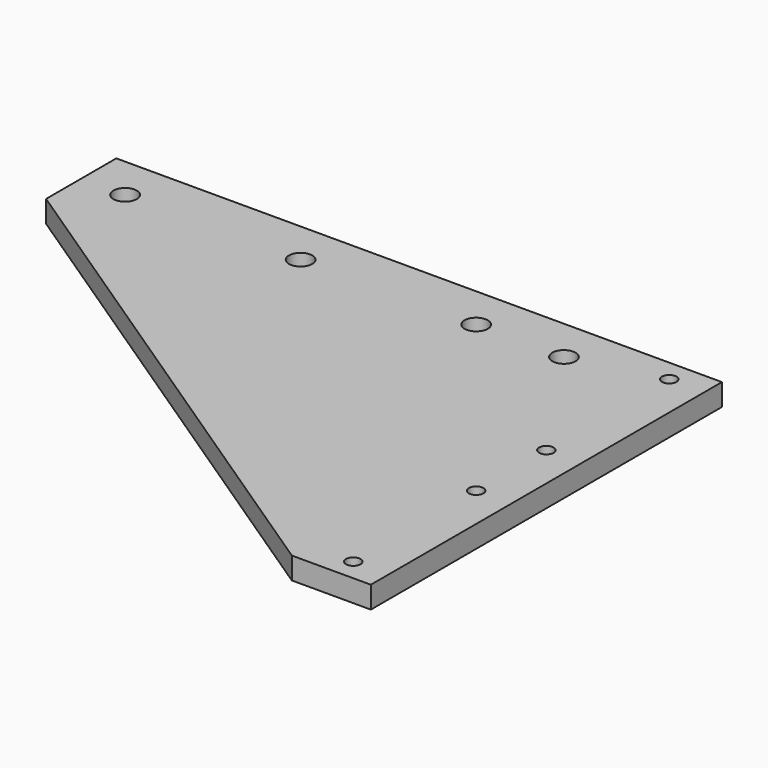
from build123d import *

# Parameters (mm, degrees)
SKETCH_R   = 2.65
SKETCH_R_2 = 1.65
PAD_DEPTH  = 5


with BuildPart() as part:
    # Sketch → Pad (new body)
    with BuildSketch(Plane.XY):
        Polygon((-120, 20), (18, 20), (18, -80), (0, -80), (-120, 0), align=None)
        with Locations((-10, 10)):
            Circle(SKETCH_R, mode=Mode.SUBTRACT)
        with Locations((-110, 10)):
            Circle(SKETCH_R, mode=Mode.SUBTRACT)
        with Locations((-70, 10)):
            Circle(SKETCH_R, mode=Mode.SUBTRACT)
        with Locations((-30, 10)):
            Circle(SKETCH_R, mode=Mode.SUBTRACT)
        with Locations((10, 15)):
            Circle(SKETCH_R_2, mode=Mode.SUBTRACT)
        with Locations((10, -20)):
            Circle(SKETCH_R_2, mode=Mode.SUBTRACT)
        with Locations((10, -40)):
            Circle(SKETCH_R_2, mode=Mode.SUBTRACT)
        with Locations((10, -75)):
            Circle(SKETCH_R_2, mode=Mode.SUBTRACT)
    extrude(amount=PAD_DEPTH)


solid = part.part
